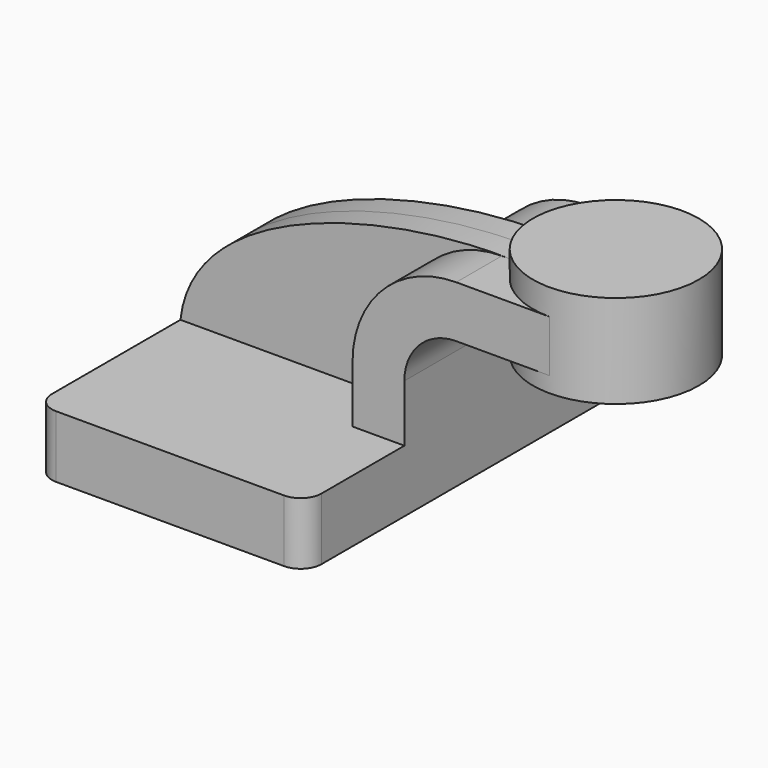
from build123d import *

# Parameters (mm, degrees)
F1_DEPTH = 63.5
F2_DEPTH = 7.9375
F3_DEPTH = 25.4
F4_DEPTH = 25.4
F6_R     = 6.35


with BuildPart() as f1:
    # F0 (on Front) → F1 (new body, symmetric)
    with BuildSketch(Plane.XZ):
        Polygon((-41.275, 9.525), (-41.275, -9.525), (41.275, -9.525), (41.275, 9.525), (25.4, 9.525), align=None)
    extrude(amount=F1_DEPTH, both=True)

    # F0 (on Front) → F2 (join, symmetric)
    with BuildSketch(Plane.XZ):
        with BuildLine():
            add(Edge.make_bspline(
                [(-41.275, 9.525), (-37.399922, 44.91622), (23.305045, 59.918404), (60.325, 58.7502)],
                knots=[0, 0, 0, 0, 112.896768, 112.896768, 112.896768, 112.896768], degree=3))
            Line((-41.275, 9.525), (25.4, 9.525))
            Line((25.4, 9.525), (25.4, 27.0002))
            ThreePointArc((25.4, 27.0002), (34.69936, 49.45084), (57.15, 58.7502))
            Line((57.15, 58.7502), (60.325, 58.7502))
        make_face()
    extrude(amount=F2_DEPTH, both=True)

    # F0 (on Front) → F3 (join, symmetric)
    with BuildSketch(Plane.XZ):
        with BuildLine():
            Line((25.4, 9.525), (41.275, 9.525))
            Line((41.275, 9.525), (41.275, 27.0002))
            ThreePointArc((41.275, 27.0002), (45.92468, 38.22552), (57.15, 42.8752))
            Line((57.15, 42.8752), (60.325, 42.8752))
            Line((60.325, 42.8752), (60.325, 58.7502))
            Line((60.325, 58.7502), (57.15, 58.7502))
            ThreePointArc((57.15, 58.7502), (34.69936, 49.45084), (25.4, 27.0002))
            Line((25.4, 27.0002), (25.4, 9.525))
        make_face()
    extrude(amount=F3_DEPTH, both=True)

    # F0 (on Front) → F4 (join, symmetric)
    with BuildSketch(Plane.XZ):
        Polygon((80.22992, 58.7502), (60.325, 58.7502), (60.325, 42.8752), (80.22992, 42.8752), (85.725, 42.8752), (85.725, 58.7502), align=None)
    extrude(amount=F4_DEPTH, both=True)

    # F0 (on Front) → F5 (revolve)
    with BuildSketch(Plane.XZ):
        Polygon((111.125, 66.675), (85.725, 66.675), (85.725, 58.7502), (85.725, 42.8752), (85.725, 38.1), (111.125, 38.1), align=None)
    revolve(axis=Axis((85.725, 0, 52.3875), (0, 0, 1)))

    # F6
    f6_edges = [f1.edges().sort_by_distance(p)[0] for p in [
        (41.275, -63.5, 0),
        (-41.275, -63.5, 0),
        (41.275, 63.5, 0),
        (-41.275, 63.5, 0),
    ]]
    fillet(f6_edges, radius=F6_R)


solid = f1.part
